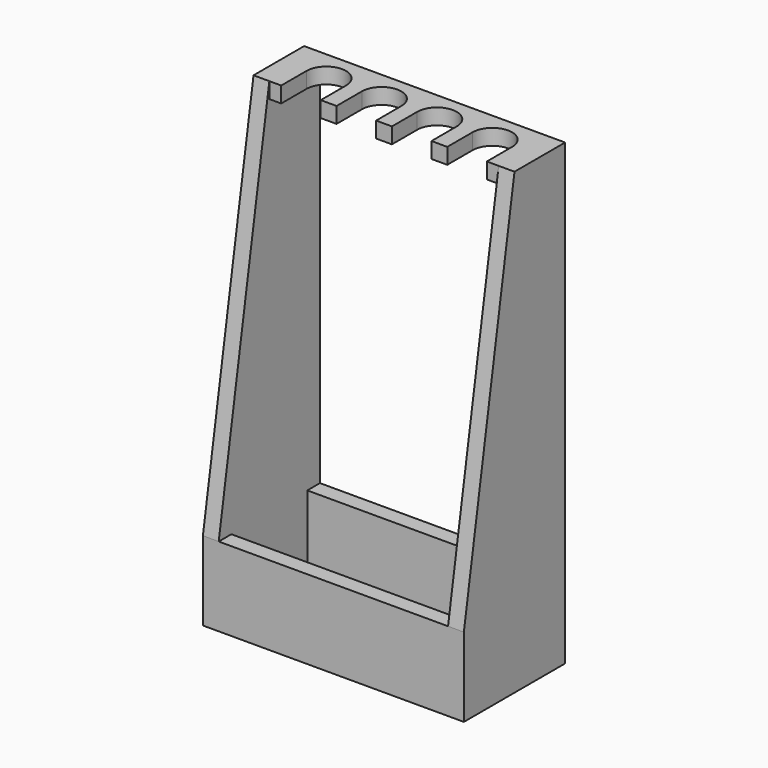
from build123d import *

# Parameters (mm, degrees)
F1_DEPTH = 25.4
F3_DEPTH = 25.4
F5_W     = 25.4
F5_H     = 101.6
F6_DEPTH = 368.3
F7_W     = 419.1
F7_H     = 203.2
F8_DEPTH = 25.4


with BuildPart() as f1:
    # F0 (on Top) → F1 (new body)
    with BuildSketch(Plane.XY):
        with BuildLine():
            Line((184.15, -50.8), (184.15, 50.8))
            Line((184.15, 50.8), (-184.15, 50.8))
            Line((-184.15, 50.8), (-184.15, -50.8))
            Line((-184.15, -50.8), (-165.1, -50.8))
            Line((-165.1, -50.8), (-165.1, 0))
            ThreePointArc((-165.1, 0), (-133.35, 31.75), (-101.6, 0))
            Line((-101.6, 0), (-101.6, -50.8))
            Line((-101.6, -50.8), (-76.2, -50.8))
            Line((-76.2, -50.8), (-76.2, 0))
            ThreePointArc((-76.2, 0), (-44.45, 31.75), (-12.7, 0))
            Line((-12.7, 0), (-12.7, -50.8))
            Line((-12.7, -50.8), (12.7, -50.8))
            Line((12.7, -50.8), (12.7, 0))
            ThreePointArc((12.7, 0), (44.45, 31.75), (76.2, 0))
            Line((76.2, 0), (76.2, -50.8))
            Line((76.2, -50.8), (101.6, -50.8))
            Line((101.6, -50.8), (101.6, 0))
            ThreePointArc((101.6, 0), (133.35, 31.75), (165.1, 0))
            Line((165.1, 0), (165.1, -50.8))
            Line((165.1, -50.8), (184.15, -50.8))
        make_face()
    extrude(amount=F1_DEPTH)

    # F2 (on face) → F3 (join)
    with BuildSketch(Plane.YZ.offset(184.15)):
        Polygon((50.8, -685.8), (50.8, 25.4), (-50.8, 25.4), (-152.4, -584.2), (-152.4, -685.8), align=None)
    extrude(amount=F3_DEPTH)

    # F4: F1 across plane


with BuildPart() as f1_1:
    add(f1.part)
    add(f1.part.mirror(Plane.YZ))

    # F5 (on face) → F6 (join, through all)
    with BuildSketch(Plane.YZ.offset(-184.15)):
        with Locations((-139.7, -635)):
            Rectangle(F5_W, F5_H)
        with Locations((38.1, -635)):
            Rectangle(F5_W, F5_H)
    extrude(amount=F6_DEPTH)

    # F7 (on face) → F8 (join)
    with BuildSketch(Plane(origin=(0, 0, -685.8), x_dir=(1, 0, 0), z_dir=(0, 0, -1))):
        with Locations((0, 50.8)):
            Rectangle(F7_W, F7_H)
    extrude(amount=F8_DEPTH)


solid = f1_1.part
